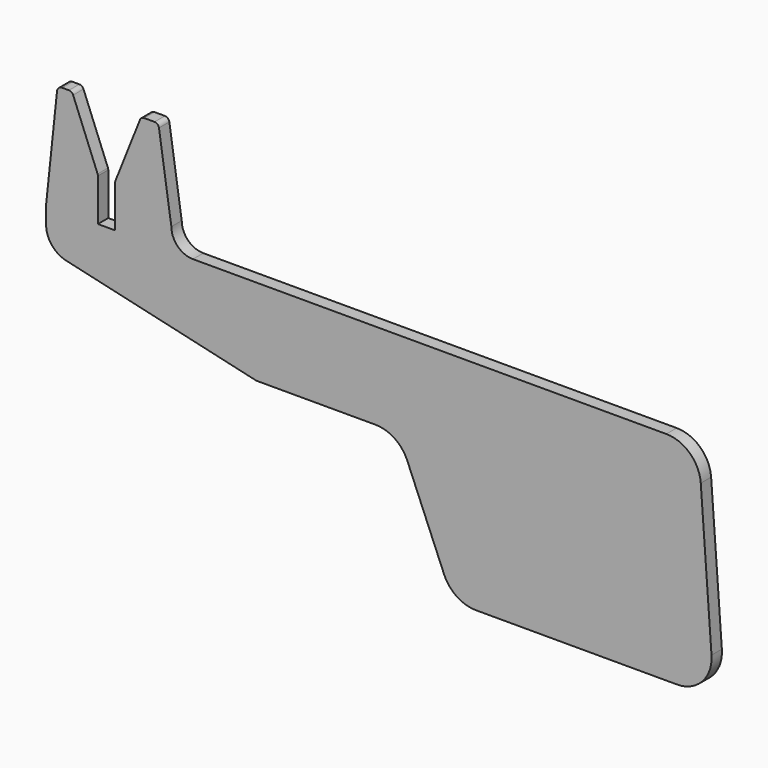
from build123d import *

# Parameters (mm, degrees)
F1_DEPTH = 3


with BuildPart() as f1:
    # F0 (on Front) → F1 (new body)
    with BuildSketch(Plane.XZ):
        with BuildLine():
            Line((75.129932, 6.363932), (-34.437499, 6.363932))
            ThreePointArc((-34.437499, 6.363932), (-37.973033, 7.828398), (-39.437499, 11.363932))
            Line((-39.437499, 11.363932), (-42.304049, 30.548125))
            ThreePointArc((-42.304049, 30.548125), (-42.656431, 31.187154), (-43.340519, 31.44123))
            Line((-43.340519, 31.44123), (-45.726631, 31.44123))
            ThreePointArc((-45.726631, 31.44123), (-46.314925, 31.260529), (-46.70034, 30.78074))
            Line((-46.70034, 30.78074), (-52.363231, 16.550558))
            ThreePointArc((-52.363231, 16.550558), (-52.418764, 16.360341), (-52.437499, 16.163071))
            Line((-52.437499, 16.163071), (-52.437499, 6.363932))
            Line((-52.437499, 6.363932), (-56.437499, 6.363932))
            Line((-56.437499, 6.363932), (-56.437499, 16.163071))
            ThreePointArc((-56.437499, 16.163071), (-56.456233, 16.360341), (-56.511767, 16.550558))
            Line((-56.511767, 16.550558), (-62.174657, 30.78074))
            ThreePointArc((-62.174657, 30.78074), (-62.560073, 31.260529), (-63.148366, 31.44123))
            Line((-63.148366, 31.44123), (-64.700432, 31.44123))
            ThreePointArc((-64.700432, 31.44123), (-65.512445, 31.129609), (-65.907509, 30.354754))
            Line((-65.907509, 30.354754), (-68.437499, 6.363932))
            Line((-68.437499, 6.363932), (-68.437499, 2.363932))
            ThreePointArc((-68.437499, 2.363932), (-67.132689, -1.371732), (-63.78577, -3.48262))
            Line((-63.78577, -3.48262), (-19.891655, -13.605026))
            ThreePointArc((-19.891655, -13.605026), (-19.756161, -13.628283), (-19.618907, -13.636068))
            Line((-19.618907, -13.636068), (7.78476, -13.636068))
            ThreePointArc((7.78476, -13.636068), (12.219831, -14.977979), (15.167034, -18.553532))
            Line((15.167034, -18.553532), (23.688949, -38.96241))
            ThreePointArc((23.688949, -38.96241), (26.636152, -42.537963), (31.071223, -43.879874))
            Line((31.071223, -43.879874), (77.612732, -43.879874))
            ThreePointArc((77.612732, -43.879874), (83.470551, -41.328356), (85.591787, -35.301364))
            Line((85.591787, -35.301364), (83.108988, -1.057558))
            ThreePointArc((83.108988, -1.057558), (80.578415, 4.221751), (75.129932, 6.363932))
        make_face()
    extrude(amount=F1_DEPTH)


solid = f1.part
